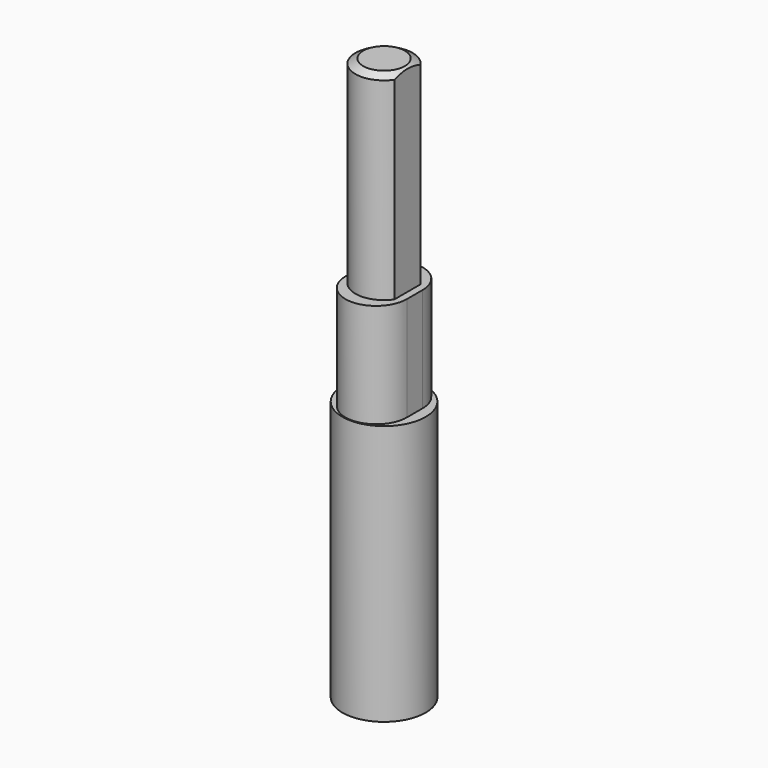
from build123d import *

# Parameters (mm, degrees)
F0_R     = 4
F1_DEPTH = 25
F3_DEPTH = 10
F4_R     = 2.75
F5_DEPTH = 19
F6_SIZE2 = 0.4330127019
F6_SIZE  = 0.75
F8_DEPTH = 19


with BuildPart() as f1:
    # F0 (on Top) → F1 (new body)
    with BuildSketch(Plane.XY):
        Circle(F0_R)
    extrude(amount=F1_DEPTH)

    # F2 (on face) → F3 (join)
    with BuildSketch(Plane.XY.offset(25)):
        with BuildLine():
            ThreePointArc((0, -3.9), (2.0859650045, -3.0359650045), (2.95, -0.95))
            Line((2.95, -0.95), (2.95, 0.95))
            ThreePointArc((2.95, 0.95), (2.0859650045, 3.0359650045), (0, 3.9))
            ThreePointArc((0, 3.9), (-2.0859650045, 3.0359650045), (-2.95, 0.95))
            Line((-2.95, 0.95), (-2.95, -0.95))
            ThreePointArc((-2.95, -0.95), (-2.0859650045, -3.0359650045), (0, -3.9))
        make_face()
    extrude(amount=F3_DEPTH)

    # F4 (on face) → F5 (join)
    with BuildSketch(Plane.XY.offset(35)):
        Circle(F4_R)
    extrude(amount=F5_DEPTH)

    # F6
    f6_edges = [f1.edges().sort_by_distance(p)[0] for p in [
        (-2.75, 0, 54),
    ]]
    f6_side = f1.faces().sort_by_distance((0, 0, 54))[0]
    chamfer(f6_edges, length=F6_SIZE, length2=F6_SIZE2, reference=f6_side)

    # F7 (on face) → F8 (cut)
    with BuildSketch(Plane.XY.offset(54)):
        Polygon((2.25, 2.9586648743), (2.25, 0), (2.25, -3.3952166559), (3.5037237976, -3.3952166559), (3.5037237976, 2.9586648743), align=None)
        Polygon((2.25, 2.9586648743), (2.25, 0), (2.25, -3.3952166559), (3.5037237976, -3.3952166559), (3.5037237976, 2.9586648743), align=None)
    extrude(amount=-F8_DEPTH, mode=Mode.SUBTRACT)


solid = f1.part
